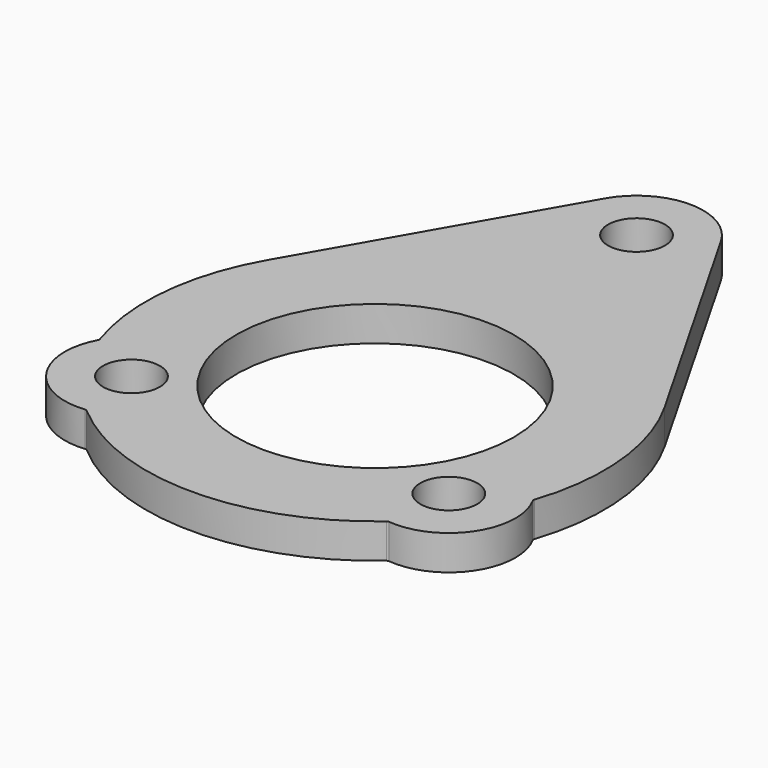
from build123d import *

# Parameters (mm, degrees)
F0_R     = 5.207
F1_DEPTH = 6.35


with BuildPart() as f1:
    # F0 (on Top) → F1 (new body)
    with BuildSketch(Plane.XY):
        with BuildLine():
            Line((36.373199, 20.799049), (10.596841, 65.876522))
            ThreePointArc((10.596841, 65.876522), (0, 72.024), (-10.596841, 65.876522))
            Line((-10.596841, 65.876522), (-36.373199, 20.799049))
            ThreePointArc((-36.373199, 20.799049), (-41.695098, 4.138692), (-39.75222, -13.242772))
            ThreePointArc((-39.75222, -13.242772), (-39.728424, -13.443582), (-39.786109, -13.637394))
            ThreePointArc((-39.786109, -13.637394), (-39.179546, -26.199019), (-27.802439, -31.558475))
            ThreePointArc((-27.802439, -31.558475), (-27.60129, -31.579207), (-27.424803, -31.677913))
            ThreePointArc((-27.424803, -31.677913), (0, -41.9), (27.424803, -31.677913))
            ThreePointArc((27.424803, -31.677913), (27.60129, -31.579207), (27.802439, -31.558475))
            ThreePointArc((27.802439, -31.558475), (39.179546, -26.199019), (39.786109, -13.637394))
            ThreePointArc((39.786109, -13.637394), (39.728424, -13.443582), (39.75222, -13.242772))
            ThreePointArc((39.75222, -13.242772), (41.695098, 4.138692), (36.373199, 20.799049))
        make_face()
        with Locations((-29.0322, -19.413577)):
            Circle(F0_R, mode=Mode.SUBTRACT)
        with Locations((29.0322, -19.413577)):
            Circle(F0_R, mode=Mode.SUBTRACT)
        with BuildLine():
            ThreePointArc((-16.831461, -19.022669), (-10.431704, 23.159006), (25.4, 0))
            ThreePointArc((25.4, 0), (23.159006, -10.431704), (16.831461, -19.022669))
            ThreePointArc((16.831461, -19.022669), (0, -25.4), (-16.831461, -19.022669))
        make_face(mode=Mode.SUBTRACT)
        with Locations((0, 59.817)):
            Circle(F0_R, mode=Mode.SUBTRACT)
    extrude(amount=F1_DEPTH)


solid = f1.part
